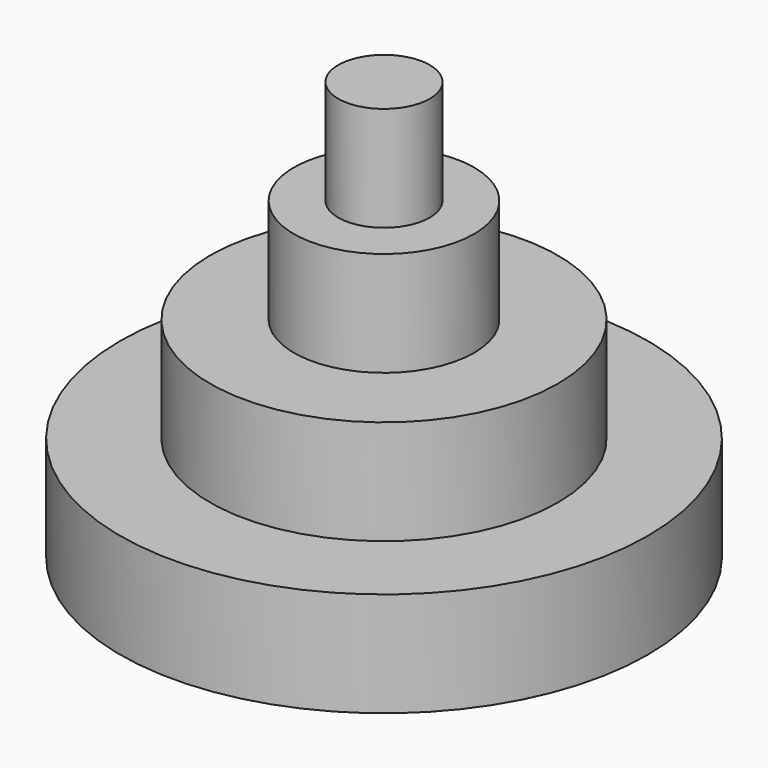
from build123d import *

# Parameters (mm, degrees)
F0_R     = 32.031836
F0_R_2   = 21.104054
F1_DEPTH = 12.7
F0_R_3   = 10.939518
F2_DEPTH = 25.4
F0_R_4   = 5.553699
F3_DEPTH = 38.1
F4_DEPTH = 50.8


with BuildPart() as f1:
    # F0 (on Top) → F1 (new body)
    with BuildSketch(Plane.XY):
        Circle(F0_R)
        Circle(F0_R_2, mode=Mode.SUBTRACT)
    extrude(amount=F1_DEPTH)

    # F0 (on Top) → F2 (join)
    with BuildSketch(Plane.XY):
        Circle(F0_R_2)
        Circle(F0_R_3, mode=Mode.SUBTRACT)
    extrude(amount=F2_DEPTH)

    # F0 (on Top) → F3 (join)
    with BuildSketch(Plane.XY):
        Circle(F0_R_3)
        Circle(F0_R_4, mode=Mode.SUBTRACT)
    extrude(amount=F3_DEPTH)

    # F0 (on Top) → F4 (join)
    with BuildSketch(Plane.XY):
        Circle(F0_R_4)
    extrude(amount=F4_DEPTH)


solid = f1.part
